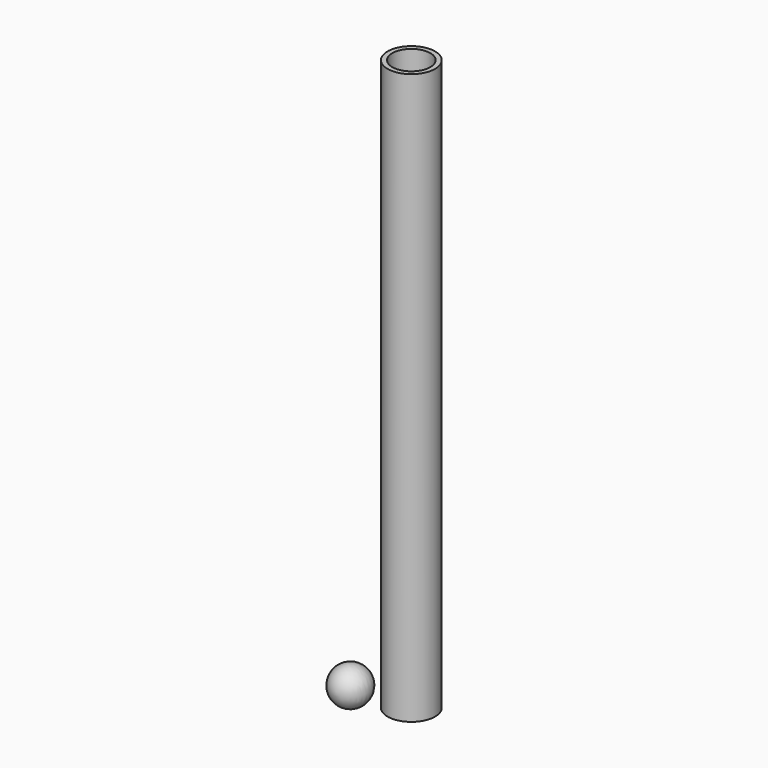
from build123d import *

# Parameters (mm, degrees)
F0_R     = 6.35
F0_R_2   = 5.08
F1_DEPTH = 152.4


with BuildPart() as f1:
    # F0 (on Top) → F1 (new body)
    with BuildSketch(Plane.XY):
        Circle(F0_R)
        Circle(F0_R_2, mode=Mode.SUBTRACT)
    extrude(amount=F1_DEPTH)


with BuildPart() as f2:
    # F0 (on Top) → F2 (revolve)
    with BuildSketch(Plane.XY):
        with BuildLine():
            Line((-16.310109, 5.049923), (-16.310109, -5.049923))
            ThreePointArc((-16.310109, -5.049923), (-11.287915, 0), (-16.310109, 5.049923))
        make_face()
    revolve(axis=Axis((-16.310109, 0, 0), (0, 1, 0)))


solid = Compound([f1.part, f2.part])
